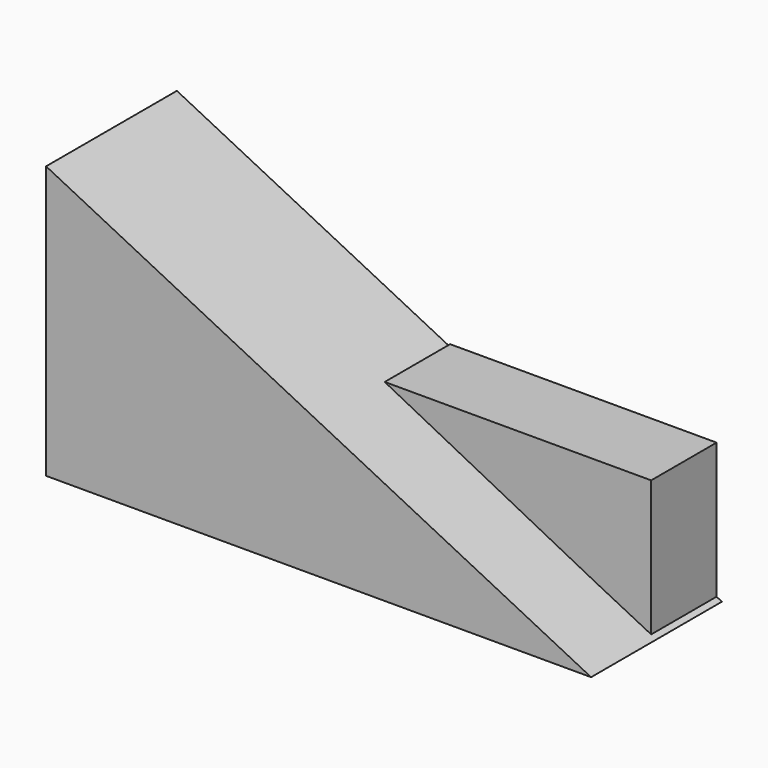
from build123d import *

# Parameters (mm, degrees)
F1_DEPTH = 38.1
F3_DEPTH = 19.05


with BuildPart() as f1:
    # F0 (on Front) → F1 (new body)
    with BuildSketch(Plane.XZ):
        Polygon((-52.300338, -3.873662), (-52.300338, -67.373662), (74.699662, -67.373662), align=None)
    extrude(amount=F1_DEPTH)

    # F2 (on Front) → F3 (join)
    with BuildSketch(Plane.XZ):
        Polygon((11.367542, -35.143607), (73.45181, -66.893607), (73.45181, -35.143607), align=None)
    extrude(amount=F3_DEPTH)


solid = f1.part
